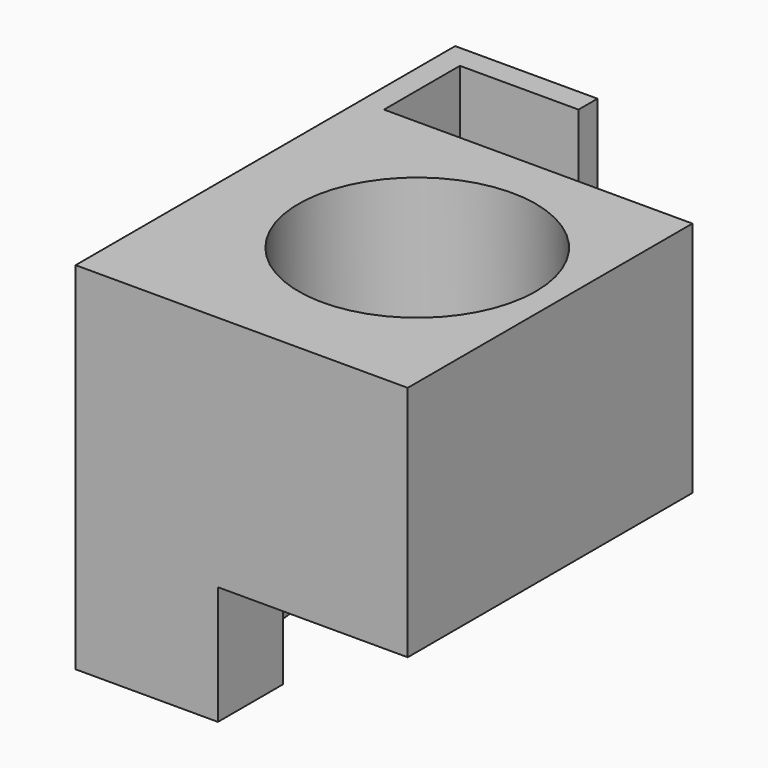
from build123d import *

# Parameters (mm, degrees)
F0_W     = 70
F0_H     = 75
F1_DEPTH = 100
F2_W     = 40
F2_H     = 25
F3_DEPTH = 100.001
F4_W     = 40
F4_H     = 25
F5_DEPTH = 75.001
F6_R     = 25
F7_DEPTH = 75.001
F8_W     = 25
F8_H     = 20
F9_DEPTH = 15


with BuildPart() as f1:
    # F0 (on Front) → F1 (new body)
    with BuildSketch(Plane.XZ):
        with Locations((35, 37.5)):
            Rectangle(F0_W, F0_H)
    extrude(amount=-F1_DEPTH)

    # F2 (on face) → F3 (cut, through all)
    with BuildSketch(Plane.XZ):
        with Locations((50, 12.5)):
            Rectangle(F2_W, F2_H)
    extrude(amount=-F3_DEPTH, mode=Mode.SUBTRACT)

    # F4 (on face) → F5 (cut, through all)
    with BuildSketch(Plane.XY.offset(75)):
        with Locations((50, 87.5)):
            Rectangle(F4_W, F4_H)
    extrude(amount=-F5_DEPTH, mode=Mode.SUBTRACT)

    # F6 (on face) → F7 (cut, through all)
    with BuildSketch(Plane.XY.offset(75)):
        with Locations((40, 40)):
            Circle(F6_R)
    extrude(amount=-F7_DEPTH, mode=Mode.SUBTRACT)

    # F8 (on face) → F9 (cut)
    with BuildSketch(Plane.XY.offset(75)):
        with Locations((17.5, 85)):
            Rectangle(F8_W, F8_H)
    extrude(amount=-F9_DEPTH, mode=Mode.SUBTRACT)


solid = f1.part
